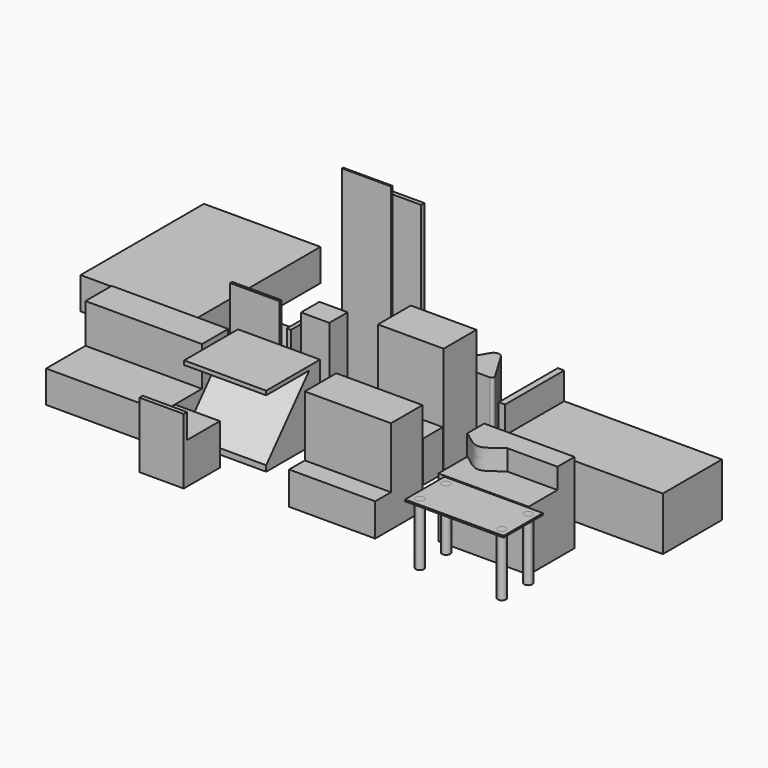
from build123d import *

# Parameters (mm, degrees)
F1_DEPTH  = 134.5
F0_W      = 78
F0_H      = 30
F2_DEPTH  = 50
F0_W_2    = 192.2561641597
F0_H_2    = 90
F3_DEPTH  = 65
F0_W_3    = 7.7438358403
F4_DEPTH  = 98
F0_W_4    = 110
F0_H_3    = 70
F5_DEPTH  = 73
F0_W_5    = 105
F0_H_4    = 48
F6_DEPTH  = 114
F8_DEPTH  = 25
F0_R      = 5
F9_DEPTH  = 74
F10_START = 72
F0_W_6    = 120
F0_H_5    = 60
F10_DEPTH = 2
F0_W_7    = 34.5
F0_H_6    = 28
F11_DEPTH = 120.5
F0_W_8    = 100
F0_H_7    = 82
F12_DEPTH = 87
F0_W_9    = 76
F0_H_8    = 5
F13_DEPTH = 210
F0_W_10   = 60
F0_H_9    = 2
F14_DEPTH = 236
F0_H_10   = 24
F15_DEPTH = 40
F16_SIZE2 = 80
F16_SIZE  = 70
F17_W     = 100
F17_H     = 70
F17_H_2   = 12
F18_DEPTH = 5
F0_H_11   = 55
F19_DEPTH = 47
F0_W_11   = 54
F20_DEPTH = 50
F21_W     = 5
F21_H     = 33
F22_DEPTH = 22
F21_W_2   = 60
F21_H_2   = 3
F23_DEPTH = 60
F24_W     = 54
F24_H     = 5
F25_DEPTH = 30
F26_DEPTH = 70
F27_R     = 3
F28_R     = 7
F0_W_12   = 142
F29_DEPTH = 39
F0_H_12   = 188
F0_H_13   = 40
F30_DEPTH = 87


with BuildPart() as f1:
    # F0 (on Top) → F1 (new body)
    with BuildSketch(Plane.XY):
        Polygon((-31.3613304122, 82.3684212938), (-111.3613304122, 82.3684212938), (-111.3613304122, 32.3684212938), (-110.3613304122, 32.3684212938), (-32.3613304122, 32.3684212938), (-31.3613304122, 32.3684212938), align=None)
    extrude(amount=F1_DEPTH)

    # F0 (on Top) → F2 (join)
    with BuildSketch(Plane.XY):
        with Locations((-71.3613304122, 17.3684212938)):
            Rectangle(F0_W, F0_H)
    extrude(amount=F2_DEPTH)


with BuildPart() as f3:
    # F0 (on Top) → F3 (new body)
    with BuildSketch(Plane.XY):
        with Locations((138.5245678854, 78.8277519985)):
            Rectangle(F0_W_2, F0_H_2)
    extrude(amount=F3_DEPTH)

    # F0 (on Top) → F4 (join)
    with BuildSketch(Plane.XY):
        with Locations((38.5245678854, 78.8277519985)):
            Rectangle(F0_W_3, F0_H_2)
    extrude(amount=F4_DEPTH)


with BuildPart() as f5:
    # F0 (on Top) → F5 (new body)
    with BuildSketch(Plane.XY):
        with Locations((106.4358714005, -44.1792364303)):
            Rectangle(F0_W_4, F0_H_3)
    extrude(amount=F5_DEPTH)

    # F7 (on face) → F8 (join)
    with BuildSketch(Plane.XY.offset(73)):
        with BuildLine():
            Line((100.4358714005, -35.1792364303), (161.4358714005, -35.1792364303))
            Line((161.4358714005, -35.1792364303), (161.4358714005, -9.1792364303))
            Line((161.4358714005, -9.1792364303), (51.4358714005, -9.1792364303))
            Line((51.4358714005, -9.1792364303), (51.4358714005, -35.1792364303))
            add(Edge.make_bspline(
                [(100.4358714005, -35.1792364303), (94.5814052077, -37.7631840456), (75.9888004838, -60.5908300163), (57.1844794266, -37.7721016431), (51.4358714005, -35.1792364303)],
                knots=[0, 0, 0, 0, 0.5, 1, 1, 1, 1], degree=3))
        make_face()
    extrude(amount=F8_DEPTH)


with BuildPart() as f6:
    # F0 (on Top) → F6 (new body)
    with BuildSketch(Plane.XY):
        with Locations((-51.5886056993, -64.2142896056)):
            Rectangle(F0_W_5, F0_H_4)
    extrude(amount=F6_DEPTH)

    # F0 (on Top) → F15 (join)
    with BuildSketch(Plane.XY):
        with Locations((-51.5886056993, -100.2142896056)):
            Rectangle(F0_W_5, F0_H_10)
    extrude(amount=F15_DEPTH)


with BuildPart() as f9:
    # F0 (on Top) → F9 (new body)
    with BuildSketch(Plane.XY):
        with Locations((71.5112297237, -92.4460858107)):
            Circle(F0_R)
    extrude(amount=F9_DEPTH)


with BuildPart() as f9b:
    # F0 (on Top) → F9, piece 2 (new body)
    with BuildSketch(Plane.XY):
        with Locations((171.5112297237, -92.4460858107)):
            Circle(F0_R)
    extrude(amount=F9_DEPTH)


with BuildPart() as f9c:
    # F0 (on Top) → F9, piece 3 (new body)
    with BuildSketch(Plane.XY):
        with Locations((171.5112297237, -132.4460858107)):
            Circle(F0_R)
    extrude(amount=F9_DEPTH)


with BuildPart() as f9d:
    # F0 (on Top) → F9, piece 4 (new body)
    with BuildSketch(Plane.XY):
        with Locations((71.5112297237, -132.4460858107)):
            Circle(F0_R)
    extrude(amount=F9_DEPTH)


with BuildPart() as f10:
    # F0 (on Top) → F10 (new body)
    with BuildSketch(Plane.XY.offset(F10_START)):
        with Locations((121.5112297237, -112.4460858107)):
            Rectangle(F0_W_6, F0_H_5)
        with Locations((71.5112297237, -132.4460858107)):
            Circle(F0_R, mode=Mode.SUBTRACT)
        with Locations((171.5112297237, -132.4460858107)):
            Circle(F0_R, mode=Mode.SUBTRACT)
        with Locations((71.5112297237, -92.4460858107)):
            Circle(F0_R, mode=Mode.SUBTRACT)
        with Locations((171.5112297237, -92.4460858107)):
            Circle(F0_R, mode=Mode.SUBTRACT)
    extrude(amount=F10_DEPTH)


with BuildPart() as f11:
    # F0 (on Top) → F11 (new body)
    with BuildSketch(Plane.XY):
        with Locations((-183.6317344904, 40.964334771)):
            Rectangle(F0_W_7, F0_H_6)
    extrude(amount=F11_DEPTH)


with BuildPart() as f12:
    # F0 (on Top) → F12 (new body)
    with BuildSketch(Plane.XY):
        with Locations((-216.1561071873, -28.4413781166)):
            Rectangle(F0_W_8, F0_H_7)
    extrude(amount=F12_DEPTH)

    # F16
    f16_edges = [f12.edges().sort_by_distance(p)[0] for p in [
        (-216.156107, -69.441378, 87),
    ]]
    f16_side = f12.faces().sort_by_distance((-216.156107, -28.441378, 87))[0]
    chamfer(f16_edges, length=F16_SIZE, length2=F16_SIZE2, reference=f16_side)

    # F17 (on face) → F18 (join)
    with BuildSketch(Plane.XY.offset(87)):
        with Locations((-216.1561071873, -34.4413781166)):
            Rectangle(F17_W, F17_H)
        with Locations((-216.1561071873, 6.5586218834)):
            Rectangle(F17_W, F17_H_2)
    extrude(amount=-F18_DEPTH)


with BuildPart() as f13:
    # F0 (on Top) → F13 (new body)
    with BuildSketch(Plane.XY):
        with Locations((-180.520373106, 139.5884776115)):
            Rectangle(F0_W_9, F0_H_8)
    extrude(amount=F13_DEPTH)


with BuildPart() as f14:
    # F0 (on Top) → F14 (new body)
    with BuildSketch(Plane.XY):
        with Locations((-187.3942774534, 110.8770946264)):
            Rectangle(F0_W_10, F0_H_9)
    extrude(amount=F14_DEPTH)


with BuildPart() as f19:
    # F0 (on Top) → F19 (new body)
    with BuildSketch(Plane.XY):
        with Locations((-277.6103627682, 79.8876026273)):
            Rectangle(F0_W_10, F0_H_11)
    extrude(amount=F19_DEPTH)

    # F21 (on face) → F22 (join)
    with BuildSketch(Plane.XY.offset(47)):
        with Locations((-305.1103627682, 86.5426399708)):
            Rectangle(F21_W, F21_H)
        with Locations((-250.1103627682, 86.5426399708)):
            Rectangle(F21_W, F21_H)
    extrude(amount=F22_DEPTH)

    # F21 (on face) → F23 (join)
    with BuildSketch(Plane.XY.offset(47)):
        with Locations((-277.6103627682, 53.8876026273)):
            Rectangle(F21_W_2, F21_H_2)
    extrude(amount=F23_DEPTH)


with BuildPart() as f20:
    # F0 (on Top) → F20 (new body)
    with BuildSketch(Plane.XY):
        with Locations((-232.8226964474, -117.9886496067)):
            Rectangle(F0_W_11, F0_H_11)
    extrude(amount=F20_DEPTH)

    # F24 (on face) → F25 (join)
    with BuildSketch(Plane.XY.offset(50)):
        with Locations((-232.8226964474, -142.9886496067)):
            Rectangle(F24_W, F24_H)
    extrude(amount=F25_DEPTH)


with BuildPart() as f26:
    # F0 (on Top) → F26 (new body)
    with BuildSketch(Plane.XY):
        Polygon((-32.111736536, 110.4601025581), (-62.111736536, 160.4601025581), (-92.111736536, 110.4601025581), align=None)
    extrude(amount=F26_DEPTH)

    # F27
    f27_edges = [f26.edges().sort_by_distance(p)[0] for p in [
        (-92.111737, 110.460103, 35),
        (-32.111737, 110.460103, 35),
    ]]
    fillet(f27_edges, radius=F27_R)

    # F28
    f28_edges = [f26.edges().sort_by_distance(p)[0] for p in [
        (-62.111737, 160.460103, 35),
    ]]
    fillet(f28_edges, radius=F28_R)


with BuildPart() as f29:
    # F0 (on Top) → F29 (new body)
    with BuildSketch(Plane.XY):
        with Locations((-344.9034192562, -62.6164388657)):
            Rectangle(F0_W_12, F0_H_5)
    extrude(amount=F29_DEPTH)

    # F0 (on Top) → F30 (join)
    with BuildSketch(Plane.XY):
        with Locations((-344.9034192562, -12.6164388657)):
            Rectangle(F0_W_12, F0_H_13)
    extrude(amount=F30_DEPTH)


with BuildPart() as f29b:
    # F0 (on Top) → F29, piece 2 (new body)
    with BuildSketch(Plane.XY):
        with Locations((-439.6425881386, 172.2982185483)):
            Rectangle(F0_W_12, F0_H_12)
    extrude(amount=F29_DEPTH)


solid = Compound([f1.part, f3.part, f5.part, f6.part, f9.part, f9b.part, f9c.part, f9d.part, f10.part, f11.part, f12.part, f13.part, f14.part, f19.part, f20.part, f26.part, f29.part, f29b.part])
